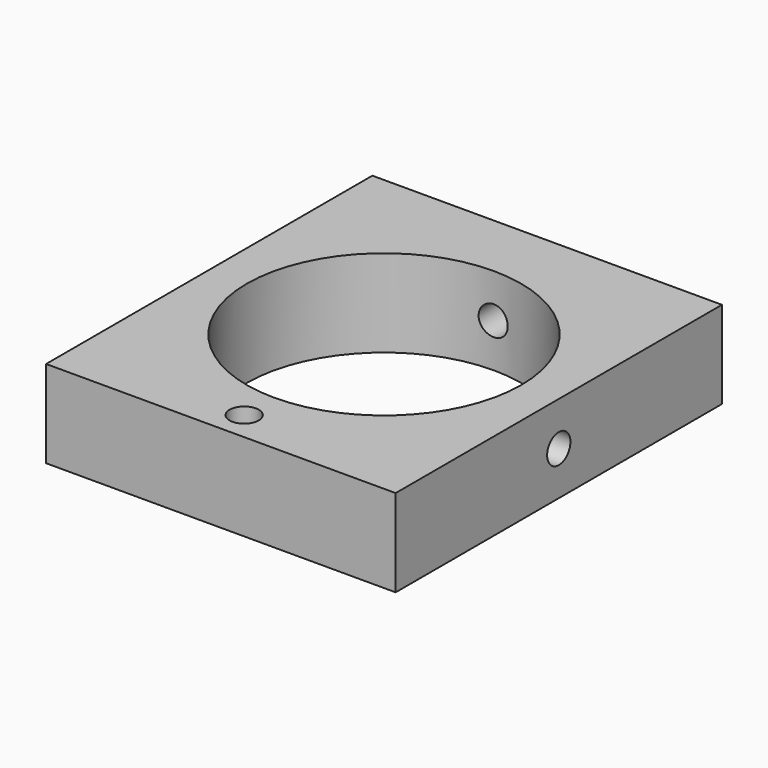
from build123d import *

# Parameters (mm, degrees)
F0_W     = 76.2
F0_H     = 88.9
F0_R     = 3.175
F0_R_2   = 29.9085
F1_DEPTH = 19.05
F2_R     = 3.175
F3_DEPTH = 25.4
F4_R     = 3.175
F5_DEPTH = 25.4


with BuildPart() as f1:
    # F0 (on Top) → F1 (new body)
    with BuildSketch(Plane.XY):
        Rectangle(F0_W, F0_H)
        with Locations((0, -38.1)):
            Circle(F0_R, mode=Mode.SUBTRACT)
        Circle(F0_R_2, mode=Mode.SUBTRACT)
    extrude(amount=F1_DEPTH)

    # F2 (on face) → F3 (cut)
    with BuildSketch(Plane.YZ.offset(38.1)):
        with Locations((0, 9.525)):
            Circle(F2_R)
    extrude(amount=-F3_DEPTH, mode=Mode.SUBTRACT)

    # F4 (on face) → F5 (cut)
    with BuildSketch(Plane(origin=(0, 44.45, 0), x_dir=(-1, 0, 0), z_dir=(0, 1, 0))):
        with Locations((0, 9.525)):
            Circle(F4_R)
    extrude(amount=-F5_DEPTH, mode=Mode.SUBTRACT)


solid = f1.part
